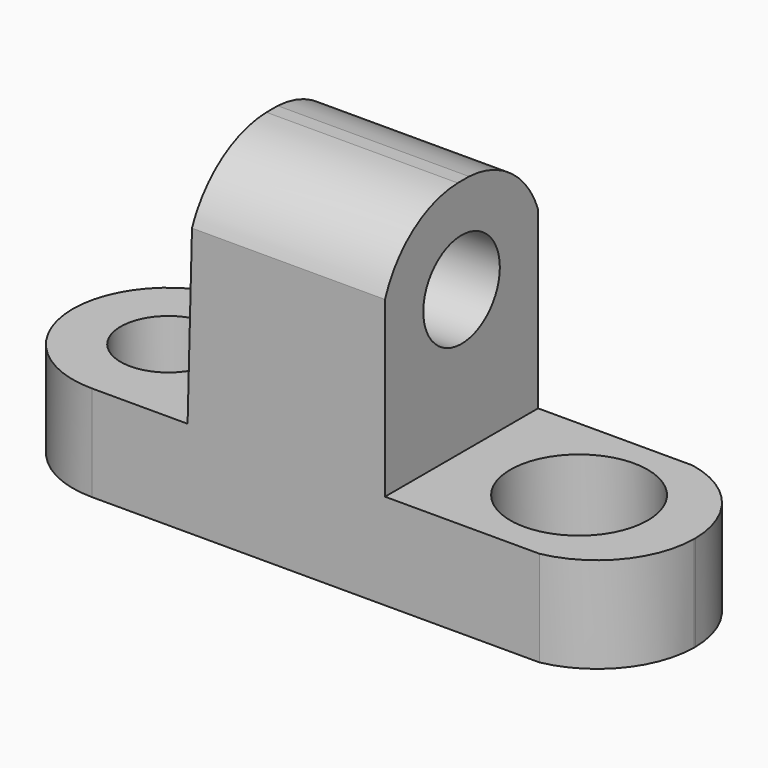
from build123d import *

# Parameters (mm, degrees)
F1_DEPTH  = 25.4
F2_R      = 6.35
F3_DEPTH  = 51.60825547
F5_DEPTH  = 51.60825547
F6_R      = 9.122141835
F7_DEPTH  = 12.701
F8_R      = 6.35
F9_DEPTH  = 12.701
F11_DEPTH = 12.701
F13_DEPTH = 12.701


with BuildPart() as f1:
    # F0 (on Front) → F1 (new body)
    with BuildSketch(Plane.XZ):
        Polygon((-70.854865197, 12.7), (-96.254865197, 12.7), (-96.254865197, 0), (-13.704865197, 0), (-13.704865197, 12.7), (-44.647609727, 12.7), (-44.647609727, 44.45), (-70.047609727, 44.45), align=None)
    extrude(amount=F1_DEPTH)

    # F2 (on face) → F3 (cut, through all)
    with BuildSketch(Plane.YZ.offset(-44.647609727)):
        with Locations((-12.7, 31.75)):
            Circle(F2_R)
    extrude(amount=-F3_DEPTH, mode=Mode.SUBTRACT)

    # F4 (on face) → F5 (cut, through all)
    with BuildSketch(Plane.YZ.offset(-44.647609727)):
        with BuildLine():
            ThreePointArc((-25.4, 35.7528030872), (-20.7098485948, 41.9702258596), (-13.3271264447, 44.45))
            Line((-13.3271264447, 44.45), (-25.4, 44.45))
            Line((-25.4, 44.45), (-25.4, 35.7528030872))
        make_face()
        with BuildLine():
            Line((0, 44.45), (-11.4556124951, 44.45))
            ThreePointArc((-11.4556124951, 44.45), (-4.4379972961, 41.9413380989), (0, 35.9543114901))
            Line((0, 35.9543114901), (0, 44.45))
        make_face()
    extrude(amount=-F5_DEPTH, mode=Mode.SUBTRACT)

    # F6 (on face) → F7 (cut, through all)
    with BuildSketch(Plane.XY.offset(12.7)):
        with Locations((-29.176237462, -12.5456847349)):
            Circle(F6_R)
    extrude(amount=-F7_DEPTH, mode=Mode.SUBTRACT)

    # F8 (on face) → F9 (cut, through all)
    with BuildSketch(Plane.XY.offset(12.7)):
        with Locations((-83.554865197, -12.7)):
            Circle(F8_R)
    extrude(amount=-F9_DEPTH, mode=Mode.SUBTRACT)

    # F10 (on face) → F11 (cut, through all)
    with BuildSketch(Plane.XY.offset(12.7)):
        with BuildLine():
            ThreePointArc((-96.254865197, -12.7), (-92.5351213181, -3.7197438789), (-83.554865197, 0))
            Line((-83.554865197, 0), (-96.254865197, 0))
            Line((-96.254865197, 0), (-96.254865197, -12.7))
        make_face()
        with BuildLine():
            ThreePointArc((-83.554865197, -25.4), (-92.5351213181, -21.6802561211), (-96.254865197, -12.7))
            Line((-96.254865197, -12.7), (-96.254865197, -25.4))
            Line((-96.254865197, -25.4), (-83.554865197, -25.4))
        make_face()
    extrude(amount=-F11_DEPTH, mode=Mode.SUBTRACT)

    # F12 (on face) → F13 (cut, through all)
    with BuildSketch(Plane.XY.offset(12.7)):
        with BuildLine():
            ThreePointArc((-24.1288895467, 0), (-16.6844564555, -4.4358743894), (-13.704865197, -12.5733556693))
            Line((-13.704865197, -12.5733556693), (-13.704865197, 0))
            Line((-13.704865197, 0), (-24.1288895467, 0))
        make_face()
        with BuildLine():
            ThreePointArc((-13.704865197, -12.8266443307), (-16.6844564555, -20.9641256106), (-24.1288895467, -25.4))
            Line((-24.1288895467, -25.4), (-13.704865197, -25.4))
            Line((-13.704865197, -25.4), (-13.704865197, -12.8266443307))
        make_face()
    extrude(amount=-F13_DEPTH, mode=Mode.SUBTRACT)


solid = f1.part
